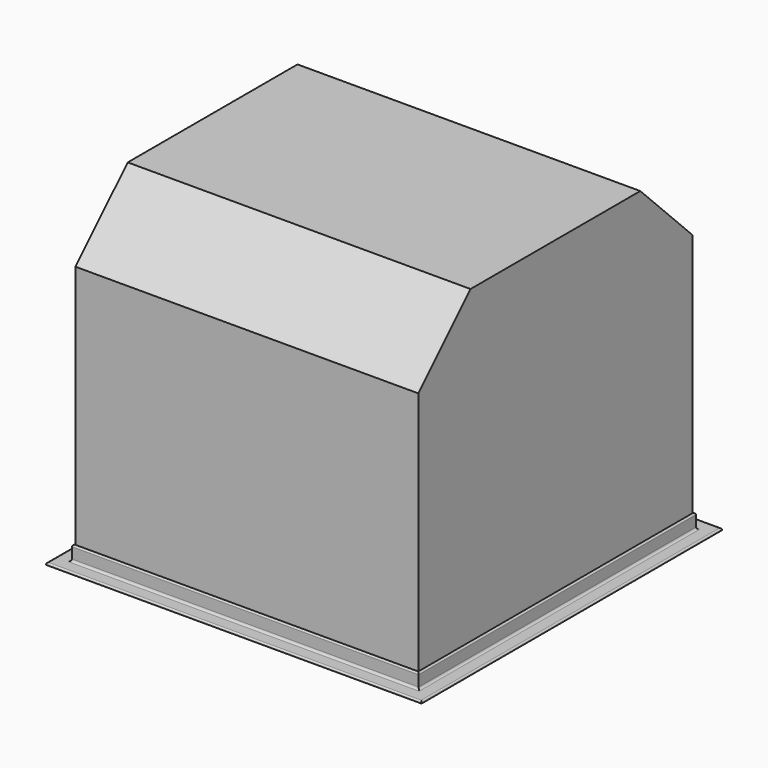
from build123d import *

# Parameters (mm, degrees)
SKETCH_W     = 1050
SKETCH_H     = 1050
PAD_DEPTH    = 1000
CHAMFER_SIZE = 200


with BuildPart() as chamfer_body:
    # Sketch → Pad (new body)
    with BuildSketch(Plane.XY):
        Rectangle(SKETCH_W, SKETCH_H)
    extrude(amount=PAD_DEPTH)

    # Chamfer
    chamfer_edges = [chamfer_body.edges().sort_by_distance(p)[0] for p in [
        (0, 525, 1000),
        (0, -525, 1000),
    ]]
    chamfer(chamfer_edges, length=CHAMFER_SIZE)


with BuildPart() as fusion:
    # Sweep: sweep along a path in Sketch001
    with BuildLine(Plane.XY) as sweep_path:
        Line((525, -525), (525, 525))
        Line((525, 525), (-525, 525))
        Line((-525, 525), (-525, -525))
        Line((-525, -525), (525, -525))
    # AngleSteel → Sweep (sweep)
    with BuildSketch(Plane(origin=(539.3963419701, 0, 14.3963419701), x_dir=(1, 0, 0), z_dir=(0, 1, 0))):
        with BuildLine():
            Line((-14.3963419701, 14.3963419701), (-14.3963419701, -35.6036580299))
            Line((-14.3963419701, -35.6036580299), (-12.8963419701, -35.6036580299))
            ThreePointArc((-12.8963419701, -35.6036580299), (-9.7143614548, -34.2856385452), (-8.3963419701, -31.1036580299))
            Line((-8.3963419701, -31.1036580299), (-8.3963419701, 1.8963419701))
            ThreePointArc((-8.3963419701, 1.8963419701), (-6.4925360478, 6.4925360478), (-1.8963419701, 8.3963419701))
            Line((-1.8963419701, 8.3963419701), (31.1036580299, 8.3963419701))
            ThreePointArc((31.1036580299, 8.3963419701), (34.2856385452, 9.7143614548), (35.6036580299, 12.8963419701))
            Line((35.6036580299, 12.8963419701), (35.6036580299, 14.3963419701))
            Line((35.6036580299, 14.3963419701), (-14.3963419701, 14.3963419701))
        make_face()
    sweep(path=sweep_path.line, is_frenet=True, transition=Transition.RIGHT)

    # Fusion: union Chamfer body
    add(chamfer_body.part)


with BuildPart() as fusion_1:
    # Fusion placement: moved
    add(fusion.part.moved(Location((0, 0, 186.5))))


solid = fusion_1.part
